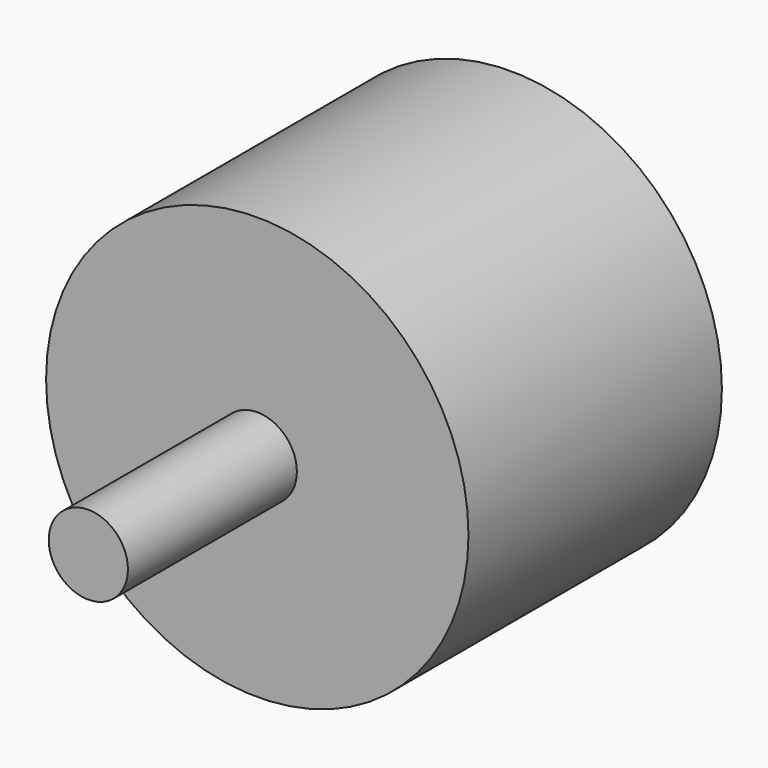
from build123d import *

# Parameters (mm, degrees)
F0_R     = 50.8
F0_R_2   = 9.525
F1_DEPTH = 76.2
F2_DEPTH = 50.8


with BuildPart() as f1:
    # F0 (on Front) → F1 (new body)
    with BuildSketch(Plane.XZ):
        Circle(F0_R)
        Circle(F0_R_2, mode=Mode.SUBTRACT)
        Circle(F0_R_2)
    extrude(amount=-F1_DEPTH)

    # F0 (on Front) → F2 (join)
    with BuildSketch(Plane.XZ):
        Circle(F0_R_2)
    extrude(amount=F2_DEPTH)


solid = f1.part
